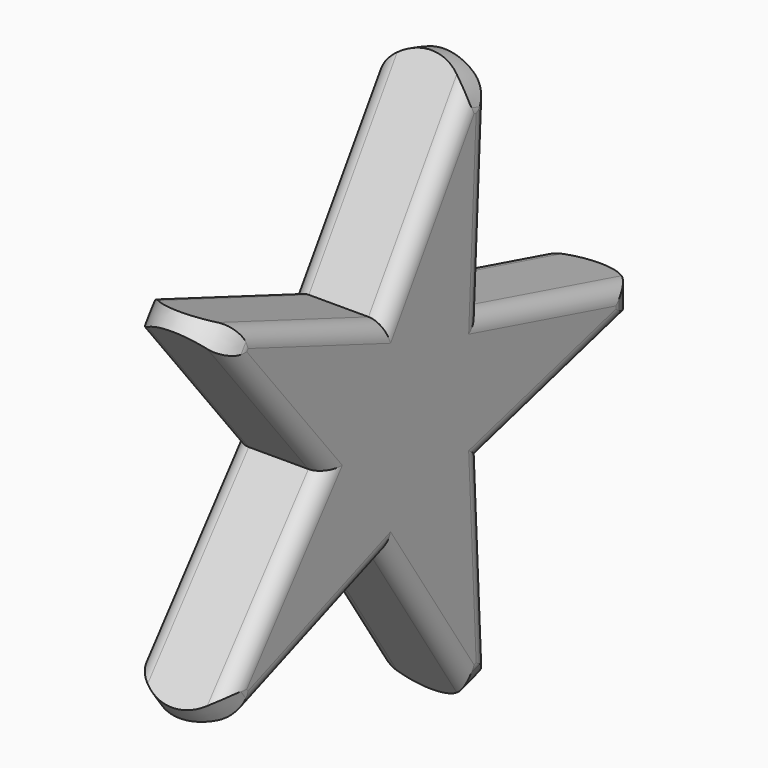
from build123d import *

# Parameters (mm, degrees)
POCKET_DEPTH       = 315.575894
POLARPATTERN_COUNT = 5
FILLET_R           = 3
FILLET001_R        = 3
FILLET002_R        = 3
FILLET003_R        = 3
FILLET004_R        = 3


with BuildPart() as part:
    # Sketch → Revolution (revolve)
    with BuildSketch(Plane.XZ):
        with BuildLine():
            Line((-8.340155, 46.010525), (-8.340155, 0))
            Line((-8.340155, 0), (8.340155, 0))
            Line((8.340155, 46.010525), (8.340155, 0))
            ThreePointArc((8.340155, 46.010525), (0, 52.507452), (-8.340155, 46.010525))
        make_face()
    revolve(axis=Axis((0, 0, 0), (1, 0, 0)))

    # Sketch002 → Pocket (cut, through all)
    with BuildSketch(Plane(origin=(-8.340155, 0, 0), x_dir=(0, 0, -1), z_dir=(-1, 0, 0))):
        with BuildLine():
            Line((-30.927677, 44.367306), (0, 19.484577))
            Line((0, 19.484577), (30.927677, 44.367306))
            ThreePointArc((30.927677, 44.367306), (0, 53.527511), (-30.927677, 44.367306))
        make_face()
    pocket = extrude(amount=-POCKET_DEPTH, mode=Mode.SUBTRACT)

    # PolarPattern: Pocket ×5 about axis
    polarpattern_axis = Axis((-8.340155, 0, 0), (-1, 0, 0))
    for i in range(1, POLARPATTERN_COUNT):
        add(pocket.rotate(polarpattern_axis, i * 360 / POLARPATTERN_COUNT), mode=Mode.SUBTRACT)

    # Fillet
    fillet_edges = [part.edges().sort_by_distance(p)[0] for p in [
        (-8.340155, -29.269712, -12.162312),
    ]]
    fillet(fillet_edges, radius=FILLET_R)

    # Fillet001
    fillet001_edges = [part.edges().sort_by_distance(p)[0] for p in [
        (-8.340155, -20.611884, -24.07879),
        (-8.340155, 2.522207, -31.595512),
        (-8.340155, 16.530867, -27.043822),
        (-8.340155, 30.828522, -7.364788),
        (-8.340155, 16.530867, 27.043822),
        (-8.340155, 2.522207, 31.595512),
        (-8.340155, -20.611884, 24.07879),
    ]]
    fillet(fillet001_edges, radius=FILLET001_R)

    # Fillet002
    fillet002_edges = [part.edges().sort_by_distance(p)[0] for p in [
        (-8.340155, -29.269712, 12.162312),
    ]]
    fillet(fillet002_edges, radius=FILLET002_R)

    # Fillet003
    fillet003_edges = [part.edges().sort_by_distance(p)[0] for p in [
        (-8.340155, 30.828522, 7.364788),
    ]]
    fillet(fillet003_edges, radius=FILLET003_R)

    # Fillet004
    fillet004_edges = [part.edges().sort_by_distance(p)[0] for p in [
        (8.340155, -29.269712, 12.162312),
        (8.340155, -20.611884, 24.07879),
        (8.340155, 2.522207, 31.595512),
        (8.340155, 16.530867, 27.043822),
        (8.340155, 30.828522, 7.364788),
        (8.340155, 30.828522, -7.364788),
        (8.340155, 16.530867, -27.043822),
        (8.340155, 2.522207, -31.595512),
        (8.340155, -20.611884, -24.07879),
        (8.340155, -29.269712, -12.162312),
        (8.340155, -37.223297, 27.044308),
        (8.340155, 14.218034, 43.75861),
        (8.340155, 46.010525, 0),
        (8.340155, 14.218034, -43.75861),
        (8.340155, -37.223297, -27.044308),
    ]]
    fillet(fillet004_edges, radius=FILLET004_R)


solid = part.part
